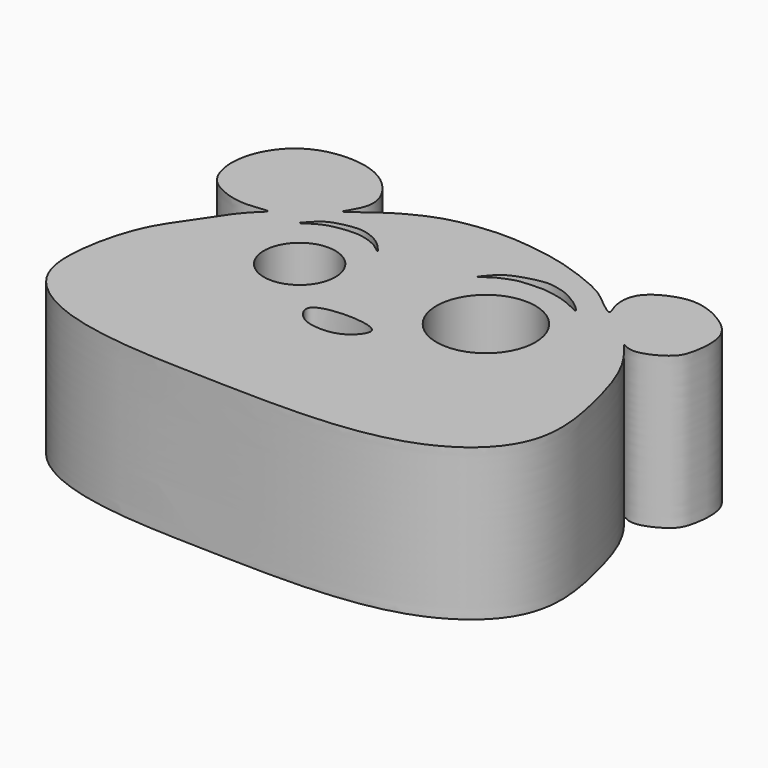
from build123d import *

# Parameters (mm, degrees)
F0_R     = 5.8871088281
F0_R_2   = 8.1455093329
F1_DEPTH = 25


with BuildPart() as f1:
    # F0 (on Top) → F1 (new body)
    with BuildSketch(Plane.XY):
        with BuildLine():
            add(Edge.make_bspline(
                [(-62.4475814402, 31.8602845073), (-64.3214401337, 31.8213266312), (-67.4883312794, 32.783250218), (-70.5433128325, 35.0718262893), (-71.8486985829, 40.5491069129), (-69.4273167334, 46.8135775657), (-63.7925916705, 50.4751428135), (-55.905553368, 50.127841629), (-51.1534421367, 46.4337606701), (-49.0445770516, 41.4798080441), (-53.1037559113, 36.4352048791), (-47.1450339344, 41.4538025169), (-40.971661506, 44.6238279635), (-35.6341036789, 45.5673224233), (-30.7840731476, 45.964329634), (-25.5786901034, 45.434537035), (-20.1202094574, 44.4809229236), (-12.4435237587, 41.5324341642), (-10.3493728304, 39.725639973), (-6.4814741144, 36.5812443041), (-8.0976360885, 39.6273777507), (-7.9772478901, 43.4426833235), (-4.5799123689, 45.917160142), (0.0669868418, 47.1974341915), (5.4710346988, 44.7052692344), (8.8057963696, 41.2454384065), (8.1846685573, 35.2716730897), (6.8665388509, 32.7357730035), (1.8438315508, 30.2902221599), (-0.3918831101, 32.0220279281), (0.6060706079, 30.6361699324), (2.1269898703, 28.9889500057), (4.7094637541, 24.4961001545), (6.8310060541, 17.319370376), (8.8330244052, 7.6143773487), (6.0751604204, -0.66499486), (-3.2028071078, -7.3738506324), (-18.371776506, -9.7880678723), (-37.1897505662, -9.1360404649), (-51.0505685142, -8.8208742961), (-63.4699020836, -6.2396753069), (-70.8680768791, -0.4986131554), (-71.9727322361, 7.5667765544), (-69.4240846528, 18.4789224082), (-65.120934427, 24.0421002247), (-61.4458844661, 30.1030982), (-58.0187725911, 32.6123229535), (-60.9488924524, 31.8914425344), (-62.4475814402, 31.8602845073)],
                knots=[0, 0, 0, 0, 0.0203886572, 0.0373752259, 0.0579037378, 0.0806902982, 0.1034294999, 0.1280398711, 0.1497673663, 0.1701146246, 0.1868933423, 0.2065044685, 0.2318846316, 0.2525775914, 0.2723326688, 0.2926363158, 0.3144811952, 0.3397335576, 0.3564067399, 0.3725959259, 0.3848591258, 0.402411235, 0.4201159073, 0.4395395164, 0.4610279205, 0.480319793, 0.5013493474, 0.5168650195, 0.5374790661, 0.5490348541, 0.55741924, 0.5713127965, 0.5914176733, 0.6164638892, 0.6446675541, 0.6703476195, 0.6996621777, 0.7350594588, 0.7743703943, 0.8083292829, 0.8400825913, 0.8663410599, 0.8913052612, 0.9210780528, 0.9454296633, 0.9699921291, 0.9836934043, 1, 1, 1, 1], degree=3))
        make_face()
        with BuildLine():
            add(Edge.make_bspline(
                [(-35.5174653232, 15.5439525843), (-33.84038652, 15.8243293509), (-30.6981966031, 15.807550273), (-26.8593832986, 14.6380266634), (-29.6142878041, 11.1024373201), (-33.2299928088, 10.4393775026), (-36.9990782403, 11.0914912362), (-39.2132265315, 14.5588186004), (-36.8164392972, 15.326787999), (-35.5174653232, 15.5439525843)],
                knots=[0, 0, 0, 0, 0.1737033973, 0.3019833326, 0.4382693164, 0.5870609716, 0.7358525912, 0.8654588014, 1, 1, 1, 1], degree=3))
        make_face(mode=Mode.SUBTRACT)
        with Locations((-46.7928946018, 23.1380201876)):
            Circle(F0_R, mode=Mode.SUBTRACT)
        with BuildLine():
            add(Edge.make_bspline(
                [(-54.0000908077, 31.9784842432), (-54.051297348, 32.0821166025), (-52.2682488488, 33.9924989932), (-50.9846114735, 34.7617839764), (-48.8583011522, 35.3242551713), (-46.982687638, 35.595455058), (-45.2753296842, 35.3563112428), (-43.4968086623, 34.5172683894), (-42.3022639101, 33.614317), (-40.4772043638, 31.4644799705), (-42.4976972692, 33.2109605341), (-43.1929750978, 33.4369633942), (-43.9207651067, 33.8456427462), (-45.8545023902, 34.354888173), (-47.9979368372, 34.2814980415), (-50.0812435288, 33.9644509894), (-52.0486188136, 33.3258254503), (-53.9524597222, 31.8820879286), (-54.0000908077, 31.9784842432)],
                knots=[0, 0, 0, 0, 0.071699554, 0.1353958221, 0.2028994744, 0.2676268347, 0.3286977621, 0.3925785804, 0.4559171643, 0.5150540012, 0.5740124876, 0.6179592337, 0.6586574105, 0.7241287018, 0.793708399, 0.8603006098, 0.9333068088, 1, 1, 1, 1], degree=3))
        make_face(mode=Mode.SUBTRACT)
        with Locations((-17.58672297, 25.0320769846)):
            Circle(F0_R_2, mode=Mode.SUBTRACT)
        with BuildLine():
            add(Edge.make_bspline(
                [(-26.6643185169, 34.5964543521), (-26.755594076, 34.6670340131), (-25.1228221394, 36.6574848261), (-23.6432387956, 37.6165443822), (-21.3118293369, 38.4211636883), (-19.2872180545, 38.8905423922), (-17.6533269285, 38.9213856593), (-15.815436929, 38.4440290239), (-15.1181655048, 38.2285074908), (-12.4624518456, 36.9052008897), (-10.031003508, 34.4669556436), (-12.9700225048, 36.1659033475), (-14.8271990916, 36.6986353081), (-16.0888762005, 36.9891023625), (-17.6257905684, 37.2544734334), (-18.8910884139, 37.1969905101), (-21.1876357486, 37.1430040221), (-22.79675042, 36.772258085), (-24.2729341799, 36.1125500628), (-25.1622490504, 35.7230041396), (-26.5852857671, 34.5353415555), (-26.6643185169, 34.5964543521)],
                knots=[0, 0, 0, 0, 0.0583452355, 0.1158129978, 0.1760861923, 0.2325165944, 0.2834224799, 0.3356294661, 0.3694535303, 0.4397229705, 0.4962549326, 0.5526421004, 0.6111257062, 0.655168475, 0.7029151318, 0.7478099028, 0.8066362828, 0.858159334, 0.9059230701, 0.9494806229, 1, 1, 1, 1], degree=3))
        make_face(mode=Mode.SUBTRACT)
    extrude(amount=F1_DEPTH)


solid = f1.part
